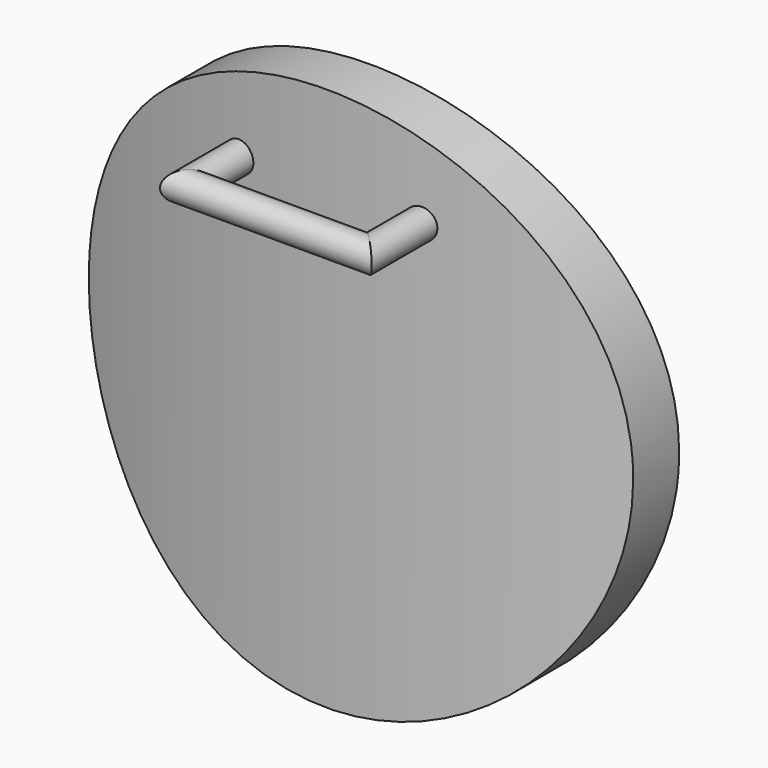
from build123d import *

# Parameters (mm, degrees)
F1_DEPTH = 104.775
F2_R     = 159.2251472174
F2_R_2   = 104.775
F3_DEPTH = 414.02
F5_DEPTH = 114.3
F6_R     = 184.3026005328
F6_R_2   = 114.3
F7_DEPTH = 563.88
F9_R     = 6.35


with BuildPart() as f1:
    # F0 (on Top) → F1 (new body, symmetric)
    with BuildSketch(Plane.XY):
        with BuildLine():
            ThreePointArc((104.775, -325.833591884), (0, -342.265), (-104.775, -325.833591884))
            Line((-104.775, -325.833591884), (-104.775, -329.1671201305))
            ThreePointArc((-104.775, -329.1671201305), (0, -345.44), (104.775, -329.1671201305))
            Line((104.775, -329.1671201305), (104.775, -325.833591884))
        make_face()
    extrude(amount=F1_DEPTH, both=True)

    # F2 (on Front) → F3 (cut)
    with BuildSketch(Plane.XZ):
        Circle(F2_R)
        Circle(F2_R_2, mode=Mode.SUBTRACT)
    extrude(amount=F3_DEPTH, mode=Mode.SUBTRACT)

    # F4 (on Top) → F5 (join, symmetric)
    with BuildSketch(Plane.XY):
        with BuildLine():
            Line((-114.3, -325.9820602426), (-114.3, -350.1148383031))
            ThreePointArc((-114.3, -350.1148383031), (0, -368.3), (114.3, -350.1148383031))
            Line((114.3, -350.1148383031), (114.3, -325.9820602426))
            ThreePointArc((114.3, -325.9820602426), (0, -345.44), (-114.3, -325.9820602426))
        make_face()
    extrude(amount=F5_DEPTH, both=True)

    # F6 (on Front) → F7 (cut)
    with BuildSketch(Plane.XZ):
        Circle(F6_R)
        Circle(F6_R_2, mode=Mode.SUBTRACT)
    extrude(amount=F7_DEPTH, mode=Mode.SUBTRACT)

    # F12: sweep along a path in F11
    with BuildLine(Plane.XY.offset(76.2)) as f12_path:
        Line((-38.1, -353.2310128212), (-38.1, -393.7))
        Line((-38.1, -393.7), (0, -393.7))
        Line((0, -393.7), (38.1, -393.7))
        Line((38.1, -393.7), (38.1, -353.2310128212))
    # F9 (on offset) → F12 (sweep)
    with BuildSketch(Plane.XZ.offset(355.6)):
        with Locations((-38.1, 76.2)):
            Circle(F9_R)
    sweep(path=f12_path.line, transition=Transition.RIGHT)


solid = f1.part
